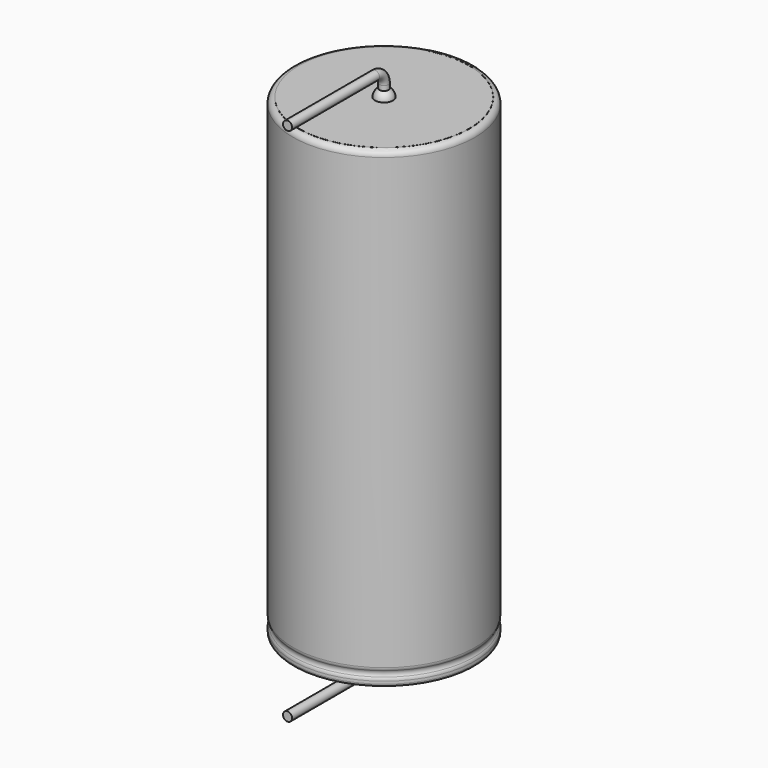
from build123d import *

# Parameters (mm, degrees)
SKETCH011_R             = 0.4
BODY007_PLACEMENT_ANGLE = 180
REVOLUTION001_ANGLE     = -30
POCKET_DEPTH            = 8.011
LINEARPATTERN_COUNT     = 10
LINEARPATTERN_PITCH     = 4.055556
SKETCH012_R             = 7.5
PAD_DEPTH               = 0.01
BODY008_PLACEMENT_ANGLE = 90


with BuildPart() as lead:
    # AdditivePipe: sweep along a path in Sketch010
    with BuildLine(Plane(origin=(0, 0, 0), x_dir=(0, -1, 0), z_dir=(-1, 0, 0))) as additivepipe_path:
        Line((0, 41.5), (0, 42.61))
        ThreePointArc((0, 42.61), (0.292893, 43.317107), (1, 43.61))
        Line((1, 43.61), (10.6, 43.61))
    # Sketch011 → AdditivePipe (sweep)
    with BuildSketch(Plane.XY.offset(41.5)):
        Circle(SKETCH011_R)
    sweep(path=additivepipe_path.line)


with BuildPart() as obj1:
    # Body007 base: copy of Lead
    add(lead.part)


with BuildPart() as obj1_1:
    # Body007 placement: moved
    add(obj1.part.moved(Location((0, 0, 41.5))).rotate(Axis((0, 0, 41.5), (0, 1, 0)), BODY007_PLACEMENT_ANGLE))


with BuildPart() as polaritymarking:
    # Sketch005 → Revolution001 (revolve)
    with BuildSketch(Plane(origin=(0, 0, 0), x_dir=(-0.258819, 0.965926, 0), z_dir=(0.965926, 0.258819, 0))):
        with BuildLine():
            Line((7.51, 0.043526), (7.51, 41.51))
            ThreePointArc((7.51, 41.51), (7.863553, 41.363553), (8.01, 41.01))
            Line((8.01, 41.01), (8.01, 1.523941))
            ThreePointArc((8.01, 1.523941), (7.989134, 1.381006), (7.928278, 1.25))
            ThreePointArc((7.928278, 1.25), (7.853698, 1), (7.928278, 0.75))
            ThreePointArc((7.928278, 0.75), (7.989134, 0.618994), (8.01, 0.476059))
            Line((8.01, 0.476059), (8.01, 0.043526))
            ThreePointArc((8.01, 0.043526), (7.76, -0.206474), (7.51, 0.043526))
        make_face()
    revolve(axis=Axis((0, 0, 0), (0, 0, 1)), revolution_arc=REVOLUTION001_ANGLE)

    # Sketch013 → Pocket (cut, through all)
    with BuildSketch(Plane.XZ):
        Polygon((0.375, 2), (-0.375, 2), (-0.375, 3), (0, 3.5), (0.375, 3), align=None)
    pocket = extrude(amount=-POCKET_DEPTH, mode=Mode.SUBTRACT)

    # LinearPattern: Pocket ×10
    with Locations(*[(0, 0, i * LINEARPATTERN_PITCH) for i in range(1, LINEARPATTERN_COUNT)]):
        add(pocket, mode=Mode.SUBTRACT)


with BuildPart() as housing:
    # Sketch → Revolution (revolve)
    with BuildSketch(Plane.XZ):
        with BuildLine():
            Line((0, 41.5), (7.5, 41.5))
            ThreePointArc((8, 41), (7.853553, 41.353553), (7.5, 41.5))
            Line((8, 41), (8, 1.523941))
            ThreePointArc((7.918278, 1.25), (7.979134, 1.381006), (8, 1.523941))
            ThreePointArc((7.918278, 1.25), (7.843698, 1), (7.918278, 0.75))
            ThreePointArc((8, 0.476059), (7.979134, 0.618994), (7.918278, 0.75))
            Line((8, 0.476059), (8, 0.25))
            ThreePointArc((7.75, 0), (7.926777, 0.073223), (8, 0.25))
            Line((0, 0), (7.75, 0))
            Line((0, 41.5), (0, 0))
        make_face()
    revolve(axis=Axis((0, 0, 0), (0, 0, 1)))


with BuildPart() as fusion:
    # Sphere → Sphere (revolve)
    with BuildSketch(Plane.XZ):
        with BuildLine():
            ThreePointArc((0, -0.8), (0.8, 0), (0, 0.8))
            Line((0, 0.8), (0, -0.8))
        make_face()
    revolve(axis=Axis((0, 0, 0), (0, 0, 1)))

    # Sketch012 (on ShapeBinder) → Pad (new body)
    with BuildSketch(Plane(origin=(0, 0, 0), x_dir=(0, -1, 0), z_dir=(0, 0, 1))):
        Circle(SKETCH012_R)
    extrude(amount=PAD_DEPTH)


with BuildPart() as fusion_1:
    # Body008 placement: moved
    add(fusion.part.moved(Location((0, 0, 41.5))).rotate(Axis((0, 0, 41.5), (0, 0, -1)), BODY008_PLACEMENT_ANGLE))

    # Fusion: union obj1, Lead, PolarityMarking, Housing
    add(obj1_1.part)
    add(lead.part)
    add(polaritymarking.part)
    add(housing.part)


solid = fusion_1.part
